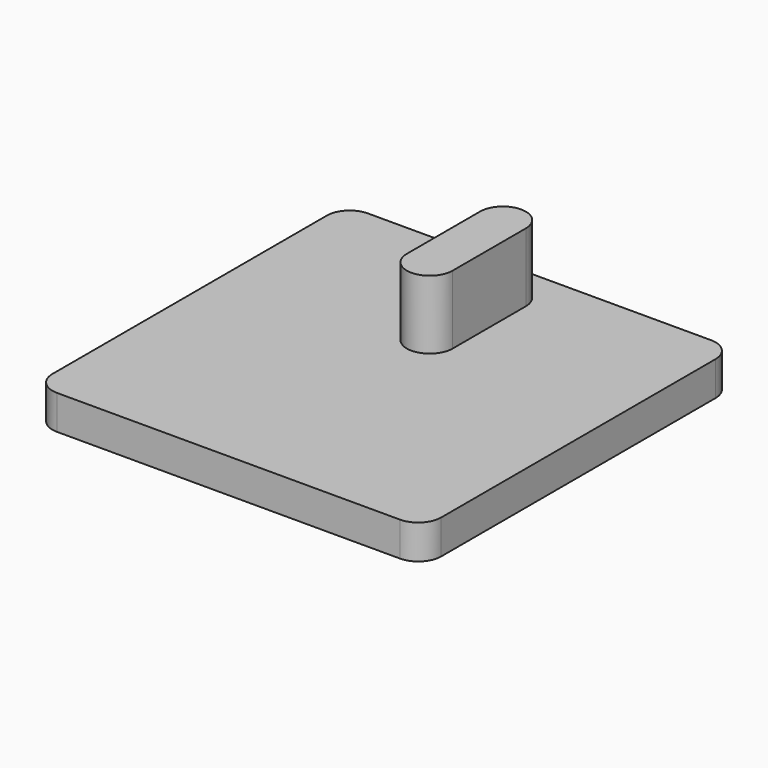
from build123d import *

# Parameters (mm, degrees)
F0_W     = 17
F0_H     = 17
F1_DEPTH = 1.5
F2_W     = 2
F2_H     = 4
F3_DEPTH = 3
F4_R     = 1


with BuildPart() as f1:
    # F0 (on Top) → F1 (new body)
    with BuildSketch(Plane.XY):
        Rectangle(F0_W, F0_H)
    extrude(amount=F1_DEPTH)

    # F2 (on face) → F3 (join)
    with BuildSketch(Plane.XY.offset(1.5)):
        with BuildLine():
            ThreePointArc((-1, 2.5), (0, 1.5), (1, 2.5))
            Line((1, 2.5), (-1, 2.5))
        make_face()
        with Locations((0, 4.5)):
            Rectangle(F2_W, F2_H)
        with BuildLine():
            Line((-1, 6.5), (1, 6.5))
            ThreePointArc((1, 6.5), (0, 7.5), (-1, 6.5))
        make_face()
    extrude(amount=F3_DEPTH)

    # F4
    f4_edges = [f1.edges().sort_by_distance(p)[0] for p in [
        (-8.5, 8.5, 0.75),
        (-8.5, -8.5, 0.75),
        (8.5, 8.5, 0.75),
        (8.5, -8.5, 0.75),
    ]]
    fillet(f4_edges, radius=F4_R)


solid = f1.part
